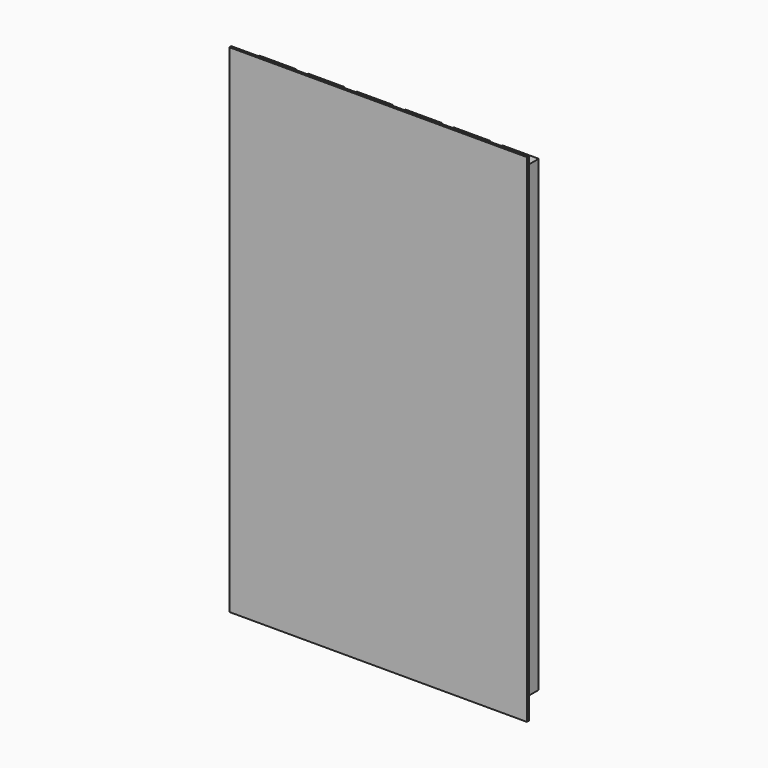
from build123d import *

# Parameters (mm, degrees)
F0_W     = 1.5
F0_H     = 19.27
F1_DEPTH = 1
F2_W     = 12.266028
F2_H     = 20.49
F3_DEPTH = 0.1


with BuildPart() as f1:
    # F0 (on Front) → F1 (new body)
    with BuildSketch(Plane.XZ):
        with Locations((-57.920374, 21.432056)):
            Rectangle(F0_W, F0_H)
        with Locations((-47.920374, 21.432056)):
            Rectangle(F0_W, F0_H)
        with Locations((-49.920374, 21.432056)):
            Rectangle(F0_W, F0_H)
        with Locations((-51.920374, 21.432056)):
            Rectangle(F0_W, F0_H)
        with Locations((-53.920374, 21.432056)):
            Rectangle(F0_W, F0_H)
        with Locations((-55.920374, 21.432056)):
            Rectangle(F0_W, F0_H)
    extrude(amount=-F1_DEPTH)

    # F2 (on Front) → F3 (join)
    with BuildSketch(Plane.XZ):
        with Locations((-52.991705, 21.388493)):
            Rectangle(F2_W, F2_H)
    extrude(amount=-F3_DEPTH)


solid = f1.part
